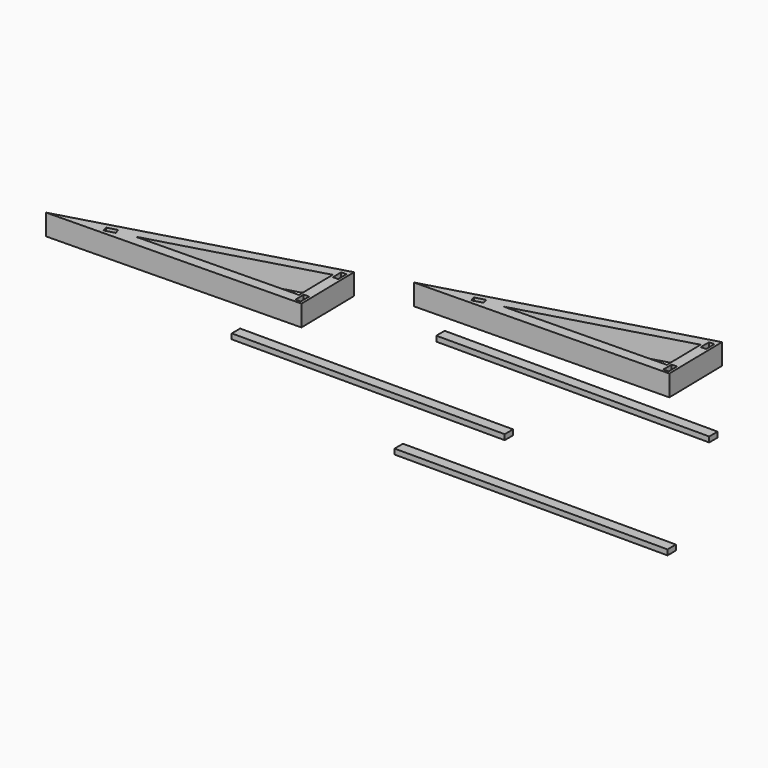
from build123d import *

# Parameters (mm, degrees)
F1_DEPTH = 6.35
F3_DEPTH = 6.35
F4_W     = 82.55
F4_H     = 3.175
F5_DEPTH = 1.6002


with BuildPart() as f1:
    # F0 (on Top) → F1 (new body)
    with BuildSketch(Plane.XY):
        Polygon((51.15218, 22.194217), (39.302432, 18.814439), (115.491109, 20.128038), (115.140816, 40.445018), align=None)
        Polygon((55.568558, 20.125823), (55.129653, 21.664654), (58.18289, 22.535497), (58.621795, 20.996665), align=None, mode=Mode.SUBTRACT)
        Polygon((114.690252, 20.901747), (113.09029, 20.874161), (113.035557, 24.048689), (114.635519, 24.076275), align=None, mode=Mode.SUBTRACT)
        Polygon((112.037529, 36.258282), (112.261848, 23.247833), (63.472662, 22.406639), align=None, mode=Mode.SUBTRACT)
        Polygon((112.847493, 35.324723), (112.79276, 38.499251), (114.392722, 38.526837), (114.447455, 35.352309), align=None, mode=Mode.SUBTRACT)
    extrude(amount=F1_DEPTH)


with BuildPart() as f3:
    # F2 (on Top) → F3 (new body)
    with BuildSketch(Plane.XY):
        Polygon((-39.032226, -4.162543), (-50.881974, -7.542321), (25.306703, -6.228723), (24.95641, 14.088258), align=None)
        Polygon((-34.615848, -6.230938), (-35.054753, -4.692106), (-32.001516, -3.821264), (-31.562611, -5.360095), align=None, mode=Mode.SUBTRACT)
        Polygon((24.505846, -5.455014), (22.905884, -5.482599), (22.851151, -2.308071), (24.451113, -2.280485), align=None, mode=Mode.SUBTRACT)
        Polygon((21.853123, 9.901522), (22.077441, -3.108928), (-26.711744, -3.950121), align=None, mode=Mode.SUBTRACT)
        Polygon((22.663087, 8.967963), (22.608354, 12.142491), (24.208316, 12.170076), (24.263049, 8.995548), align=None, mode=Mode.SUBTRACT)
    extrude(amount=F3_DEPTH)


with BuildPart() as f5:
    # F4 (on Top) → F5 (new body)
    with BuildSketch(Plane.XY):
        with Locations((95.972613, 9.587606)):
            Rectangle(F4_W, F4_H)
        with Locations((57.524838, -19.674114)):
            Rectangle(F4_W, F4_H)
        with Locations((124.368329, -41.667347)):
            Rectangle(F4_W, F4_H)
    extrude(amount=F5_DEPTH)


solid = Compound([f1.part, f3.part, f5.part])
